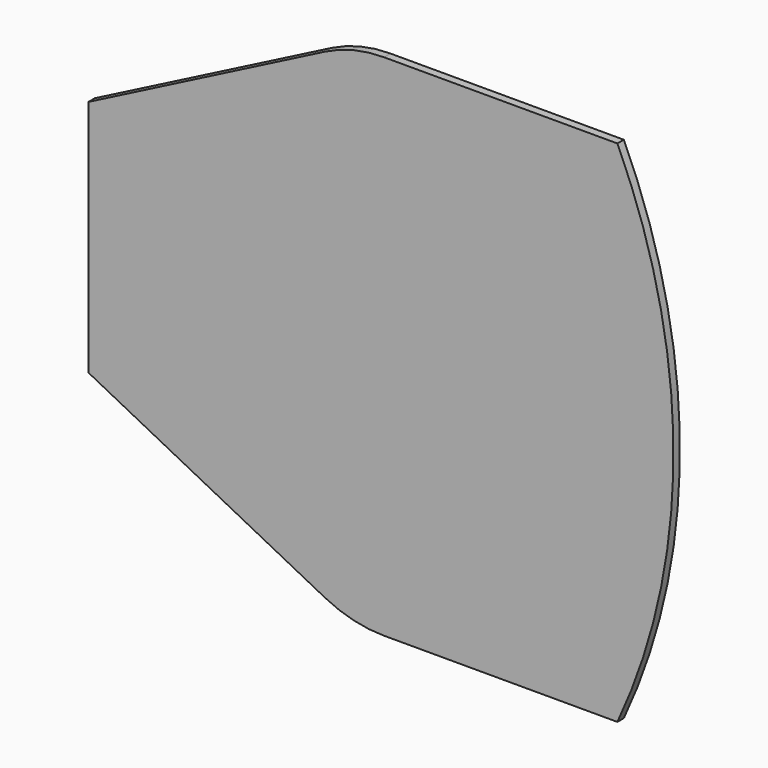
from build123d import *

# Parameters (mm, degrees)
F1_DEPTH = 1.5875


with BuildPart() as f1:
    # F0 (on Front) → F1 (new body)
    with BuildSketch(Plane.XZ):
        with BuildLine():
            Line((-2.835184, -45.032743), (-2.835184, -91.849111))
            Line((-2.835184, -91.849111), (43.704942, -115.692325))
            ThreePointArc((43.704942, -115.692325), (49.329511, -117.777947), (55.286339, -118.486325))
            Line((55.286339, -118.486325), (101.152416, -118.486325))
            ThreePointArc((101.152416, -118.486325), (112.176016, -68.440927), (101.152416, -18.39553))
            Line((101.152416, -18.39553), (55.286339, -18.39553))
            ThreePointArc((55.286339, -18.39553), (49.329511, -19.103907), (43.704942, -21.18953))
            Line((43.704942, -21.18953), (-2.835184, -45.032743))
        make_face()
    extrude(amount=F1_DEPTH)


solid = f1.part
